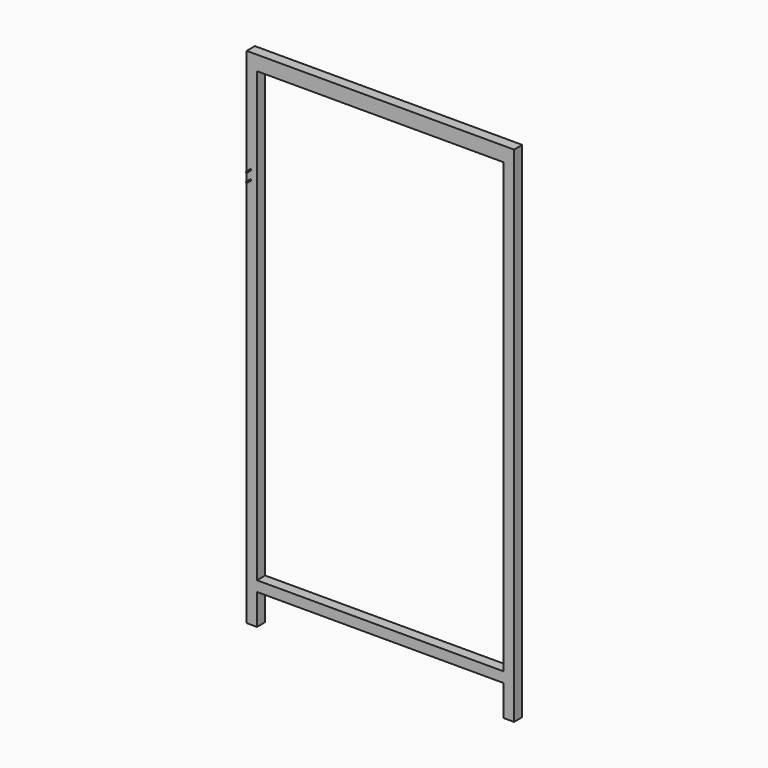
from build123d import *

# Parameters (mm, degrees)
F0_W     = 1219.2
F0_H     = 71.835716
F0_H_2   = 50.8
F1_DEPTH = 50.8
F3_R     = 3.175
F2_R     = 3.175
F4_DEPTH = 25.4
F0_W_2   = 50.8
F0_H_3   = 152.4
F5_DEPTH = 50.8


with BuildPart() as f1:
    # F0 (on Front) → F1 (new body)
    with BuildSketch(Plane.XZ):
        Polygon((1206.330058, 2246.750314), (1155.530058, 2246.750314), (1155.530058, 2174.914598), (1155.530058, -39.249686), (1155.530058, -90.049686), (1206.330058, -90.049686), align=None)
        with Locations((545.930058, 2210.832456)):
            Rectangle(F0_W, F0_H)
        Polygon((-63.669942, 2246.750314), (-114.469942, 2246.750314), (-114.469942, -90.049686), (-63.669942, -90.049686), (-63.669942, -39.249686), (-63.669942, 2174.914598), align=None)
        with Locations((545.930058, -64.649686)):
            Rectangle(F0_W, F0_H_2)
    extrude(amount=F1_DEPTH)

    # F3 (on face) + F2 (on face) → F4 (join)
    with BuildSketch(Plane.XZ.offset(50.8)):
        with Locations((-95.419942, 1691.125314)):
            Circle(F3_R)
        with Locations((-95.419942, 1735.575314)):
            Circle(F3_R)
    with BuildSketch(Plane.XZ.offset(50.8)):
        with Locations((-95.419942, 1735.575314)):
            Circle(F2_R)
    extrude(amount=F4_DEPTH)

    # F0 (on Front) → F5 (join)
    with BuildSketch(Plane.XZ):
        Polygon((1206.330058, 2246.750314), (1155.530058, 2246.750314), (1155.530058, 2174.914598), (1155.530058, -39.249686), (1155.530058, -90.049686), (1206.330058, -90.049686), align=None)
        with Locations((1180.930058, -166.249686)):
            Rectangle(F0_W_2, F0_H_3)
        with Locations((-89.069942, -166.249686)):
            Rectangle(F0_W_2, F0_H_3)
    extrude(amount=F5_DEPTH)


solid = f1.part
